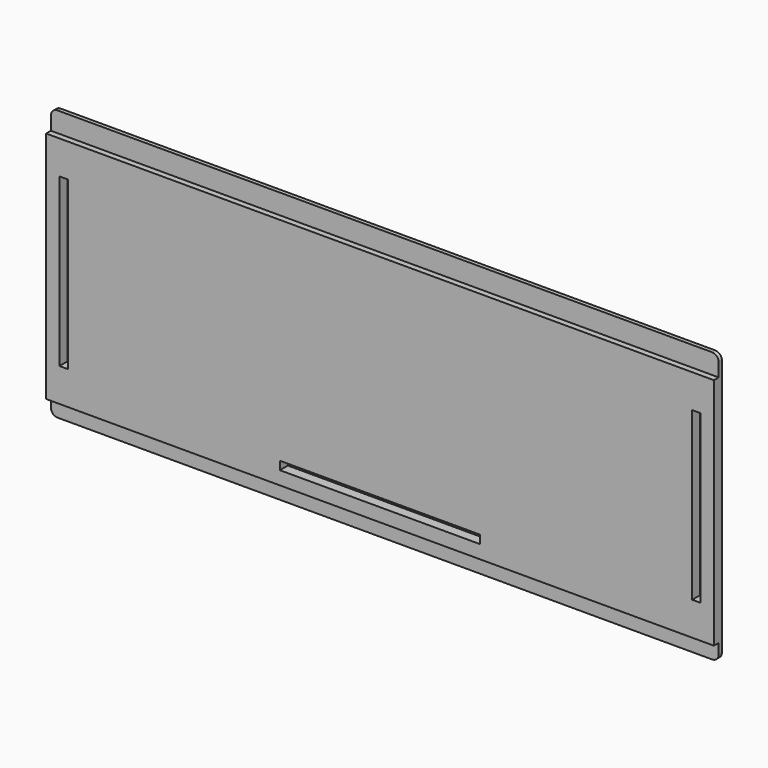
from build123d import *

# Parameters (mm, degrees)
F0_W     = 200
F0_H     = 81
F1_DEPTH = 3
F2_W     = 200
F2_H     = 6
F2_H_2   = 5
F3_DEPTH = 1.8
F4_R     = 2
F5_W     = 2.5
F5_H     = 50
F5_W_2   = 60
F5_H_2   = 2.5
F6_DEPTH = 25


with BuildPart() as f1:
    # F0 (on Front) → F1 (new body)
    with BuildSketch(Plane.XZ):
        Rectangle(F0_W, F0_H)
    extrude(amount=F1_DEPTH)

    # F2 (on face) → F3 (cut)
    with BuildSketch(Plane.XZ.offset(3)):
        with Locations((0, 37.5)):
            Rectangle(F2_W, F2_H)
        with Locations((0, -38)):
            Rectangle(F2_W, F2_H_2)
    extrude(amount=-F3_DEPTH, mode=Mode.SUBTRACT)

    # F4
    f4_edges = [f1.edges().sort_by_distance(p)[0] for p in [
        (-100, -0.6, -40.5),
        (-100, -0.6, 40.5),
        (100, -0.6, -40.5),
        (100, -0.6, 40.5),
    ]]
    fillet(f4_edges, radius=F4_R)

    # F5 (on face) → F6 (cut)
    with BuildSketch(Plane.XZ.offset(3)):
        with Locations((-94.75, -0.5)):
            Rectangle(F5_W, F5_H)
        with Locations((94.75, -0.5)):
            Rectangle(F5_W, F5_H)
        with Locations((0, -30.25)):
            Rectangle(F5_W_2, F5_H_2)
    extrude(amount=-F6_DEPTH, mode=Mode.SUBTRACT)


solid = f1.part
